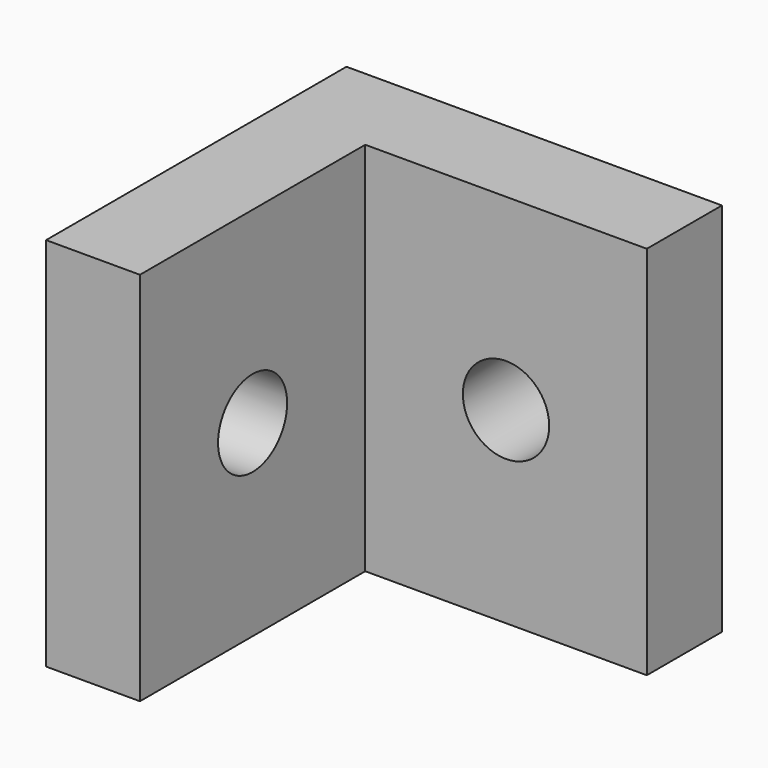
from build123d import *

# Parameters (mm, degrees)
F0_W     = 9.525
F0_H     = 3.175
F1_DEPTH = 12.7
F2_R     = 1.4605
F4_DEPTH = 25.4
F3_R     = 1.4605
F5_DEPTH = 25.4


with BuildPart() as f1:
    # F0 (on Top) → F1 (new body)
    with BuildSketch(Plane.XY):
        Polygon((-46.713472, 32.047768), (-46.713472, 19.347768), (-43.538472, 19.347768), (-43.538472, 28.872768), (-43.538472, 32.047768), align=None)
        with Locations((-38.775972, 30.460268)):
            Rectangle(F0_W, F0_H)
    extrude(amount=F1_DEPTH)

    # F2 (on face) → F4 (cut)
    with BuildSketch(Plane.XZ.offset(-28.872768)):
        with Locations((-38.775972, 6.35)):
            Circle(F2_R)
    extrude(amount=-F4_DEPTH, mode=Mode.SUBTRACT)

    # F3 (on face) → F5 (cut)
    with BuildSketch(Plane.YZ.offset(-43.538472)):
        with Locations((24.110268, 6.35)):
            Circle(F3_R)
    extrude(amount=-F5_DEPTH, mode=Mode.SUBTRACT)


solid = f1.part
